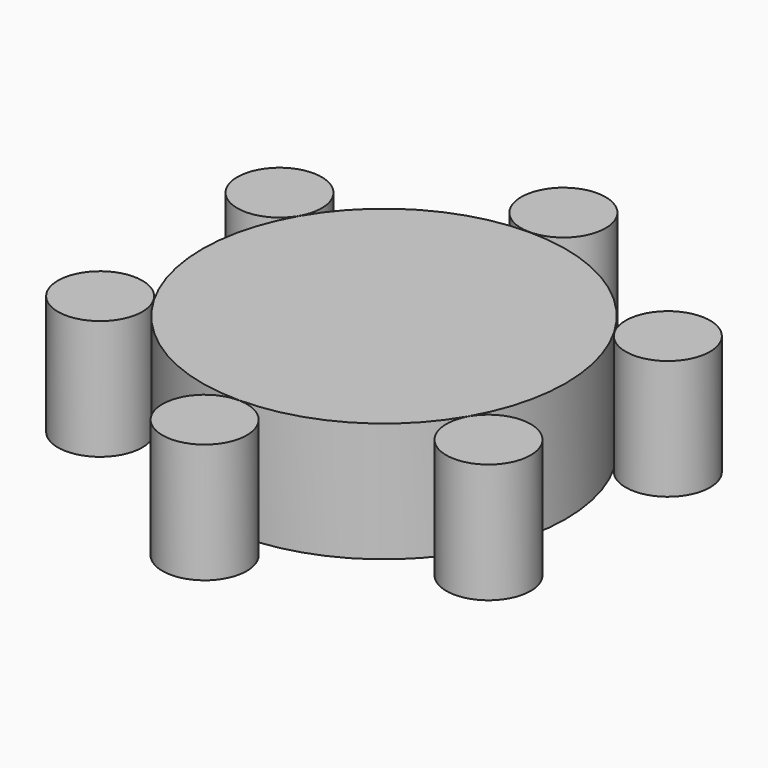
from build123d import *

# Parameters (mm, degrees)
F0_R     = 38.6277302142
F1_DEPTH = 25.4
F0_R_2   = 8.9696733371
F2_COUNT = 6


with BuildPart() as f1:
    # F0 (on Top) → F1 (new body)
    with BuildSketch(Plane.XY):
        Circle(F0_R)
    extrude(amount=F1_DEPTH)


with BuildPart() as f1b:
    # F0 (on Top) → F1, piece 2 (new body)
    with BuildSketch(Plane.XY):
        with Locations((0, 47.6557277143)):
            Circle(F0_R_2)
    extrude(amount=F1_DEPTH)


with BuildPart() as f2_1:
    # F2: instance of F1b
    add(f1b.part.rotate(Axis((0, 0, 25.4), (0, 0, 1)), 1 * 360 / F2_COUNT))


with BuildPart() as f2_2:
    # F2: instance of F1b
    add(f1b.part.rotate(Axis((0, 0, 25.4), (0, 0, 1)), 2 * 360 / F2_COUNT))


with BuildPart() as f2_3:
    # F2: instance of F1b
    add(f1b.part.rotate(Axis((0, 0, 25.4), (0, 0, 1)), 3 * 360 / F2_COUNT))


with BuildPart() as f2_4:
    # F2: instance of F1b
    add(f1b.part.rotate(Axis((0, 0, 25.4), (0, 0, 1)), 4 * 360 / F2_COUNT))


with BuildPart() as f2_5:
    # F2: instance of F1b
    add(f1b.part.rotate(Axis((0, 0, 25.4), (0, 0, 1)), 5 * 360 / F2_COUNT))


solid = Compound([f1.part, f1b.part, f2_1.part, f2_2.part, f2_3.part, f2_4.part, f2_5.part])
